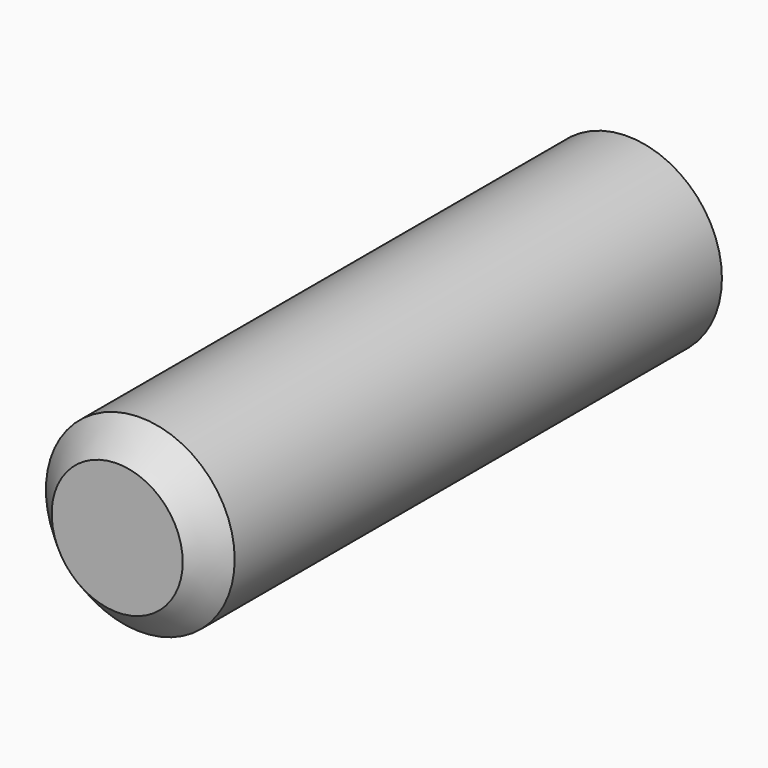
from build123d import *

# Parameters (mm, degrees)
F0_R     = 24.905616
F1_DEPTH = 168.298289
F2_SIZE  = 7.62


with BuildPart() as f1:
    # F0 (on Front) → F1 (new body)
    with BuildSketch(Plane.XZ):
        Circle(F0_R)
        Circle(F0_R)
    extrude(amount=F1_DEPTH)

    # F2
    f2_edges = [f1.edges().sort_by_distance(p)[0] for p in [
        (-24.905616, -168.298289, 0),
    ]]
    chamfer(f2_edges, length=F2_SIZE)


solid = f1.part
